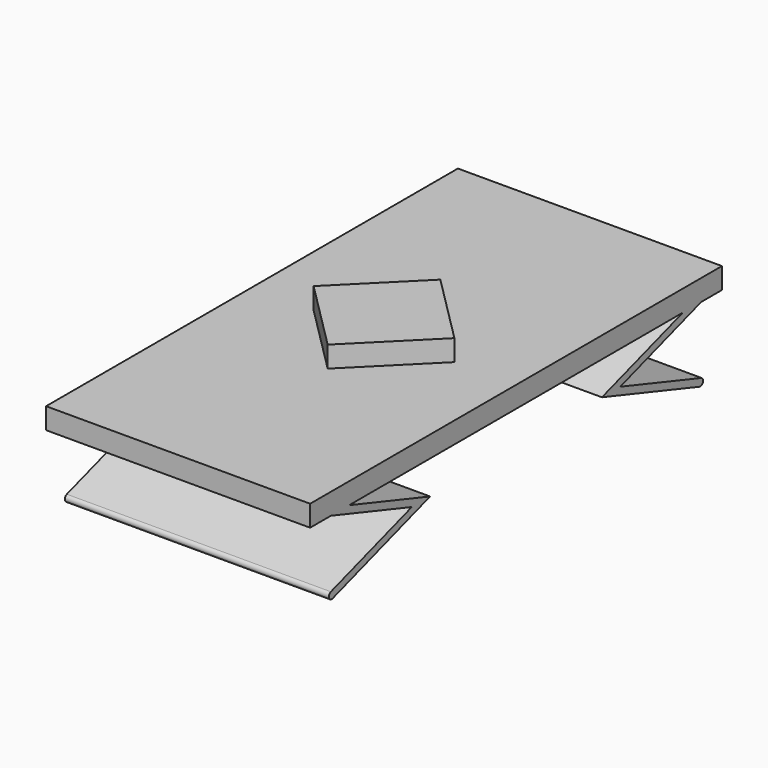
from build123d import *

# Parameters (mm, degrees)
PAD011_DEPTH = 7.5
SKETCH014_W  = 15
SKETCH014_H  = 29.2426
PAD012_DEPTH = 1.2
PAD013_DEPTH = 1.2


with BuildPart() as part:
    # Sketch015 → Pad011 (new body, symmetric)
    with BuildSketch(Plane.YZ):
        with BuildLine():
            Line((-11.85, 3.8), (-13.15, 3.8))
            Line((-13.15, 3.8), (-7.4, 1.9))
            Line((-7.4, 1.9), (-13.15, 0))
            ThreePointArc((-13.15, 0), (-13.279654, -0.257625), (-13.022029, -0.387279))
            Line((-13.022029, -0.387279), (-6.1, 1.9))
            Line((-6.1, 1.9), (-11.85, 3.8))
        make_face()
    pad011 = extrude(amount=PAD011_DEPTH, both=True)

    # Sketch014 (on DatumPlane) → Pad012 (join)
    with BuildSketch(Plane.XY.offset(3.8)):
        Rectangle(SKETCH014_W, SKETCH014_H)
    extrude(amount=PAD012_DEPTH)

    # Mirrored002: Pad011 across Sketch015 V_Axis
    add(pad011.mirror(Plane(origin=(0, 0, 0), x_dir=(1, 0, 0), z_dir=(0, 1, 0))))

    # Sketch018 → Pad013 (join)
    with BuildSketch(Plane.XY.offset(5)):
        Polygon((4, 0), (0, 4), (-4, 0), (0, -4), align=None)
    extrude(amount=PAD013_DEPTH)


solid = part.part
